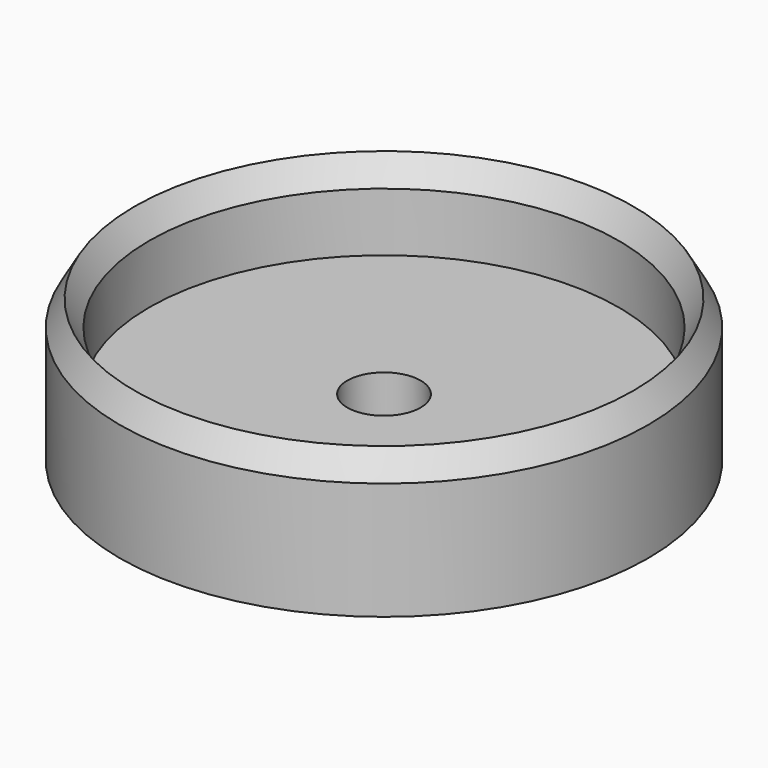
from build123d import *

# Parameters (mm, degrees)
F2_R     = 1.984375
F3_DEPTH = 7.725815
F4_ANGLE = 180


with BuildPart() as f1:
    # F0 (on Front) → F1 (revolve)
    with BuildSketch(Plane.XZ):
        Polygon((13.5, -4.549815), (14.29375, -3.175), (14.29375, 0), (14.29375, 3.175), (0, 3.175), (0, 0), (12.70625, 0), (12.70625, -3.175), align=None)
    revolve(axis=Axis((0, 0, -9.971488), (0, 0, -1)))

    # F2 (on face) → F3 (cut, through all)
    with BuildSketch(Plane.XY.offset(3.175)):
        Circle(F2_R)
    extrude(amount=-F3_DEPTH, mode=Mode.SUBTRACT)


with BuildPart() as f1_1:
    # F4: moved
    add(f1.part.rotate(Axis((-6.353125, 0, 0), (1, 0, 0)), F4_ANGLE))


solid = f1_1.part
